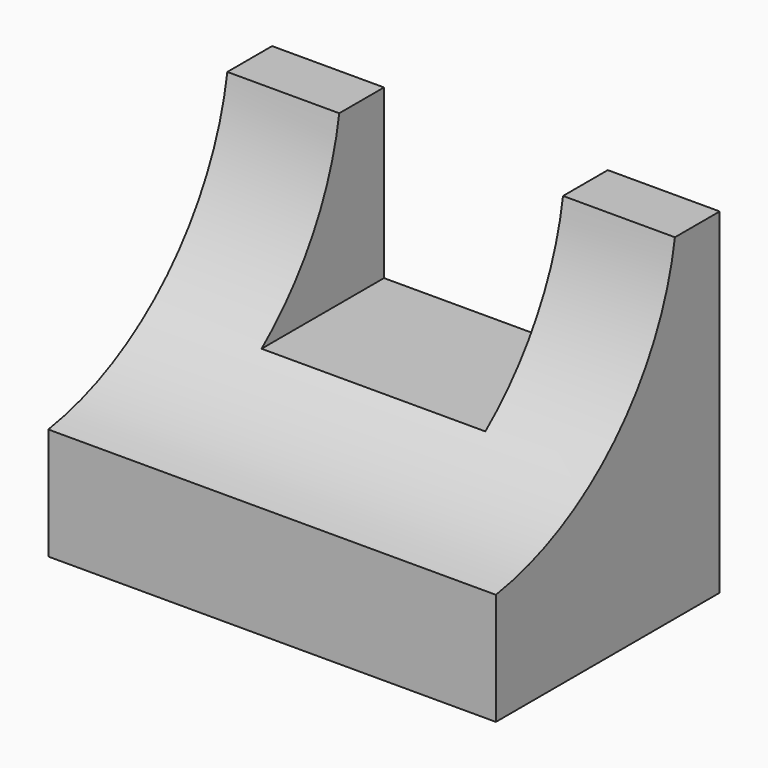
from build123d import *

# Parameters (mm, degrees)
F0_W     = 50.8
F0_H     = 12.7
F1_DEPTH = 31.75
F3_DEPTH = 6.35
F5_DEPTH = 25.4
F7_DEPTH = 50.8
F8_DEPTH = 25.4


with BuildPart() as f1:
    # F0 (on Front) → F1 (new body)
    with BuildSketch(Plane.XZ):
        with Locations((25.4, 6.35)):
            Rectangle(F0_W, F0_H)
    extrude(amount=-F1_DEPTH)

    # F2 (on face) → F3 (join)
    with BuildSketch(Plane(origin=(0, 31.75, 0), x_dir=(-1, 0, 0), z_dir=(0, 1, 0))):
        Polygon((-50.8, 38.1), (-50.8, 12.7), (0, 12.7), (0, 38.1), (-12.7, 38.1), (-12.7, 19.05), (-38.1, 19.05), (-38.1, 38.1), align=None)
    extrude(amount=-F3_DEPTH)

    # F4 (on face) → F5 (join)
    with BuildSketch(Plane.XY.offset(38.1)):
        Polygon((50.8, 0), (50.8, 25.4), (38.1, 25.4), (0, 25.4), (0, 0), align=None)
    extrude(amount=-F5_DEPTH)

    # F6 (on face) → F7 (cut)
    with BuildSketch(Plane.YZ.offset(50.8)):
        with BuildLine():
            Line((0, 38.1), (0, 12.7))
            ThreePointArc((0, 12.7), (16.8424565007, 21.2575434993), (25.4, 38.1))
            Line((25.4, 38.1), (0, 38.1))
        make_face()
    extrude(amount=-F7_DEPTH, mode=Mode.SUBTRACT)

    # F8 (cut): a face of the model
    f8_faces = [f1.faces().sort_by_distance(p)[0] for p in [
        (25.4, 25.4, 28.575),
    ]]
    extrude(f8_faces, amount=-F8_DEPTH, mode=Mode.SUBTRACT)


solid = f1.part
